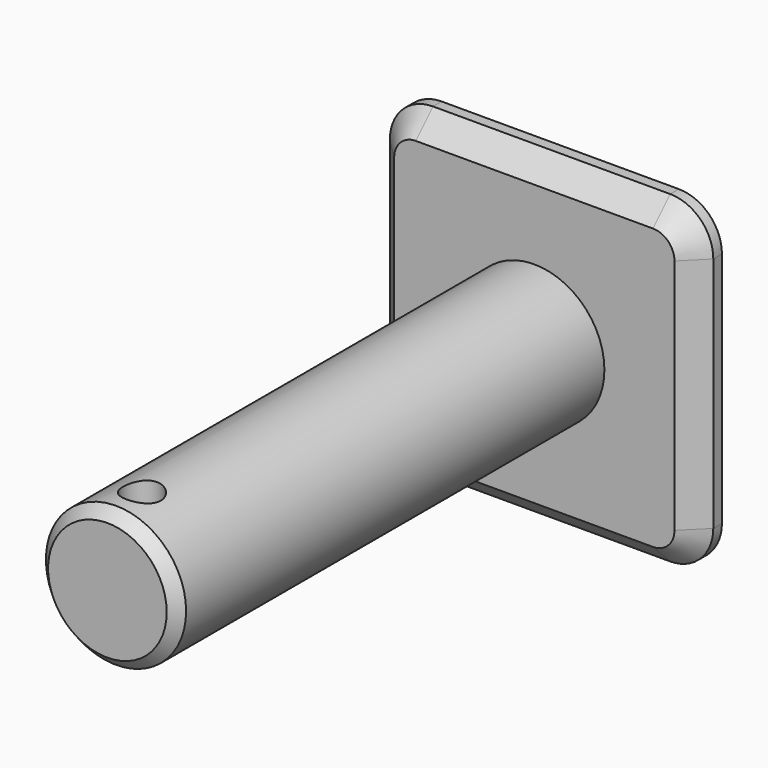
from build123d import *

# Parameters (mm, degrees)
F0_R      = 16.51
F1_DEPTH  = 133.35
F2_W      = 76.2
F2_H      = 76.2
F3_DEPTH  = 7.62
F4_R      = 10.16
F5_R      = 10.16
F6_R      = 10.16
F7_R      = 10.16
F8_SIZE   = 5.08
F9_SIZE   = 2.54
F10_R     = 4.445
F11_DEPTH = 76.2


with BuildPart() as f1:
    # F0 (on Front) → F1 (new body)
    with BuildSketch(Plane.XZ):
        with Locations((38.1, 38.1)):
            Circle(F0_R)
    extrude(amount=F1_DEPTH)

    # F9
    f9_edges = [f1.edges().sort_by_distance(p)[0] for p in [
        (21.59, -133.35, 38.1),
    ]]
    chamfer(f9_edges, length=F9_SIZE)

    # F10 (on Top) → F11 (cut)
    with BuildSketch(Plane.XY):
        with Locations((38.1, -123.19)):
            Circle(F10_R)
    extrude(amount=F11_DEPTH, mode=Mode.SUBTRACT)


with BuildPart() as f3:
    # F2 (on Front) → F3 (new body)
    with BuildSketch(Plane.XZ):
        with Locations((38.1, 38.1)):
            Rectangle(F2_W, F2_H)
    extrude(amount=F3_DEPTH)

    # F4
    f4_edges = [f3.edges().sort_by_distance(p)[0] for p in [
        (0, -3.81, 0),
    ]]
    fillet(f4_edges, radius=F4_R)

    # F5
    f5_edges = [f3.edges().sort_by_distance(p)[0] for p in [
        (76.2, -3.81, 0),
    ]]
    fillet(f5_edges, radius=F5_R)

    # F6
    f6_edges = [f3.edges().sort_by_distance(p)[0] for p in [
        (0, -3.81, 76.2),
    ]]
    fillet(f6_edges, radius=F6_R)

    # F7
    f7_edges = [f3.edges().sort_by_distance(p)[0] for p in [
        (76.2, -3.81, 76.2),
    ]]
    fillet(f7_edges, radius=F7_R)

    # F8
    f8_edges = [f3.edges().sort_by_distance(p)[0] for p in [
        (38.1, -7.62, 0),
    ]]
    chamfer(f8_edges, length=F8_SIZE)


solid = Compound([f1.part, f3.part])
